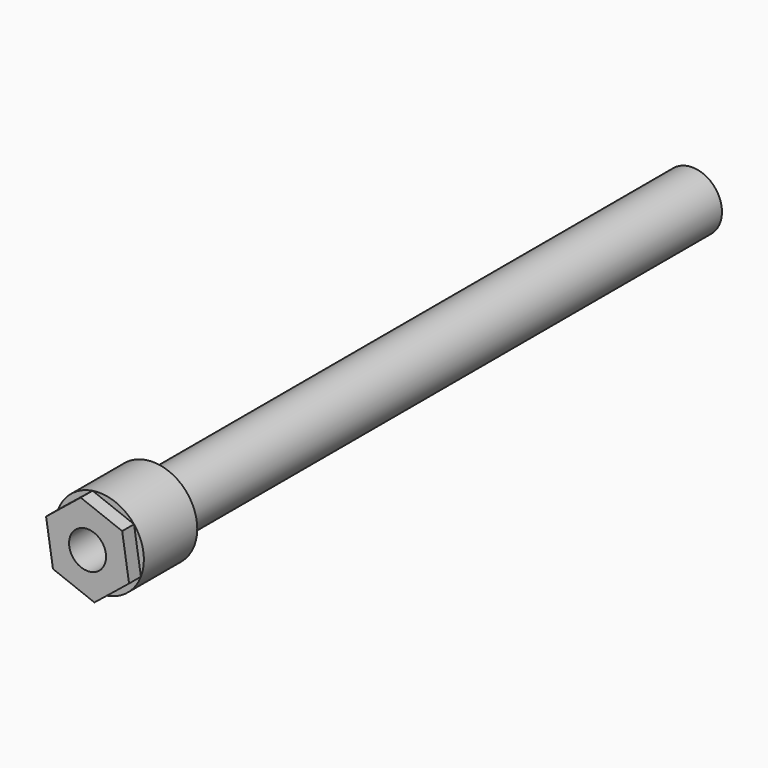
from build123d import *

# Parameters (mm, degrees)
F0_R          = 6
F1_DEPTH      = 75
F1_DEPTH_BACK = 25
F3_DEPTH      = 2
F4_R          = 2.5
F5_DEPTH      = 25
F6_R          = 6
F6_R_2        = 4
F7_DEPTH      = 91


with BuildPart() as f1:
    # F0 (on Front) → F1 (new body, two sides)
    with BuildSketch(Plane.XZ) as f1_sk:
        Circle(F0_R)
    extrude(amount=F1_DEPTH)
    extrude(f1_sk.sketch, amount=-F1_DEPTH_BACK)

    # F2 (on face) → F3 (join)
    with BuildSketch(Plane.XZ.offset(75)):
        Polygon((5.597545, -2.160437), (4.669766, 3.767398), (-0.927779, 5.927835), (-5.597545, 2.160437), (-4.669766, -3.767398), (0.927779, -5.927835), align=None)
    extrude(amount=F3_DEPTH)

    # F4 (on face) → F5 (cut)
    with BuildSketch(Plane.XZ.offset(77)):
        Circle(F4_R)
    extrude(amount=-F5_DEPTH, mode=Mode.SUBTRACT)

    # F6 (on face) → F7 (cut)
    with BuildSketch(Plane(origin=(0, 25, 0), x_dir=(-1, 0, 0), z_dir=(0, 1, 0))):
        Circle(F6_R)
        Circle(F6_R_2, mode=Mode.SUBTRACT)
    extrude(amount=-F7_DEPTH, mode=Mode.SUBTRACT)


solid = f1.part
